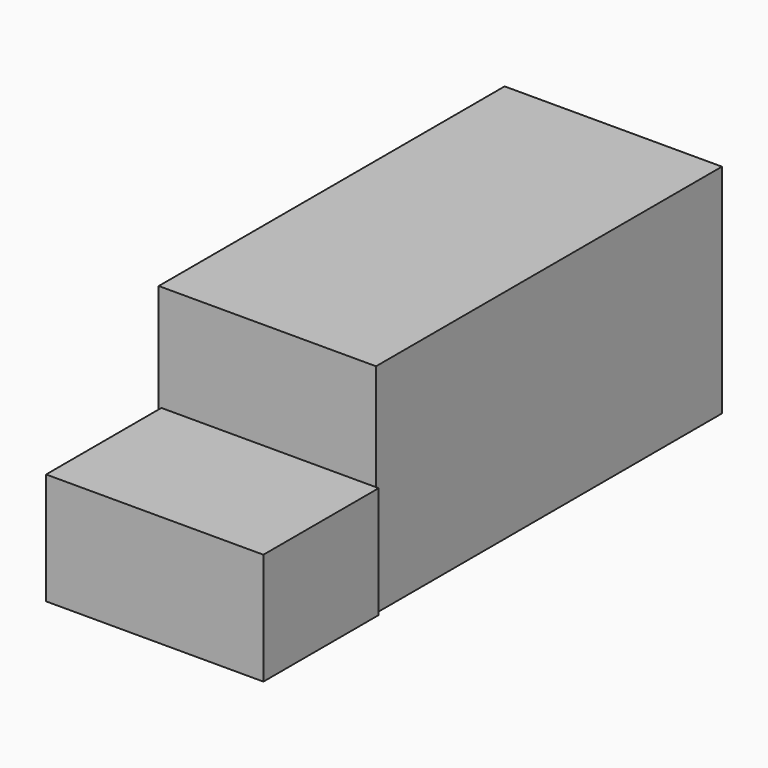
from build123d import *

# Parameters (mm, degrees)
F0_W     = 76.598722
F0_H     = 76.598718
F1_DEPTH = 152.4
F2_W     = 76.598719
F2_H     = 39.384769
F3_DEPTH = 50.8


with BuildPart() as f1:
    # F0 (on Front) → F1 (new body)
    with BuildSketch(Plane.XZ):
        with Locations((11.474302, -8.063022)):
            Rectangle(F0_W, F0_H)
    extrude(amount=-F1_DEPTH)

    # F2 (on Front) → F3 (join)
    with BuildSketch(Plane.XZ):
        with Locations((12.40465, -26.980116)):
            Rectangle(F2_W, F2_H)
    extrude(amount=F3_DEPTH)


solid = f1.part
